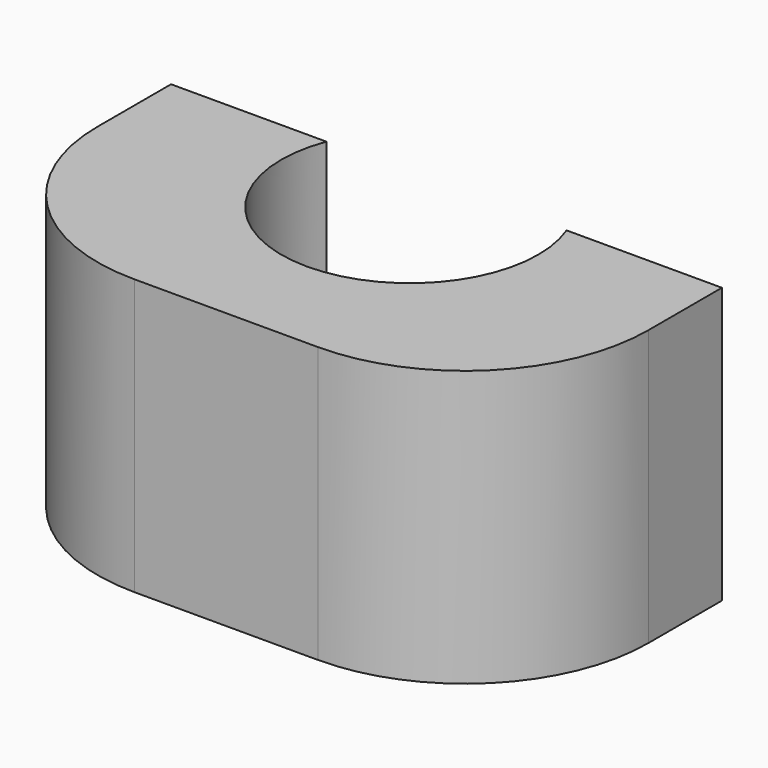
from build123d import *

# Parameters (mm, degrees)
SKETCH006_W     = 12
SKETCH006_H     = 6
PAD002_DEPTH    = 6
SKETCH007_R     = 2.8
POCKET004_DEPTH = 6.001
FILLET_R        = 4


with BuildPart() as part:
    # Sketch006 → Pad002 (new body)
    with BuildSketch(Plane.XZ.offset(5)):
        with Locations((0, 29)):
            Rectangle(SKETCH006_W, SKETCH006_H)
    extrude(amount=PAD002_DEPTH)

    # Sketch007 → Pocket004 (cut, through all)
    with BuildSketch(Plane(origin=(0, -5, 32), x_dir=(-1, 0, 0), z_dir=(0, 0, 1))):
        with Locations((0, 1)):
            Circle(SKETCH007_R)
    extrude(amount=-POCKET004_DEPTH, mode=Mode.SUBTRACT)

    # Fillet
    fillet_edges = [part.edges().sort_by_distance(p)[0] for p in [
        (-6, -11, 29),
        (6, -11, 29),
    ]]
    fillet(fillet_edges, radius=FILLET_R)


solid = part.part
